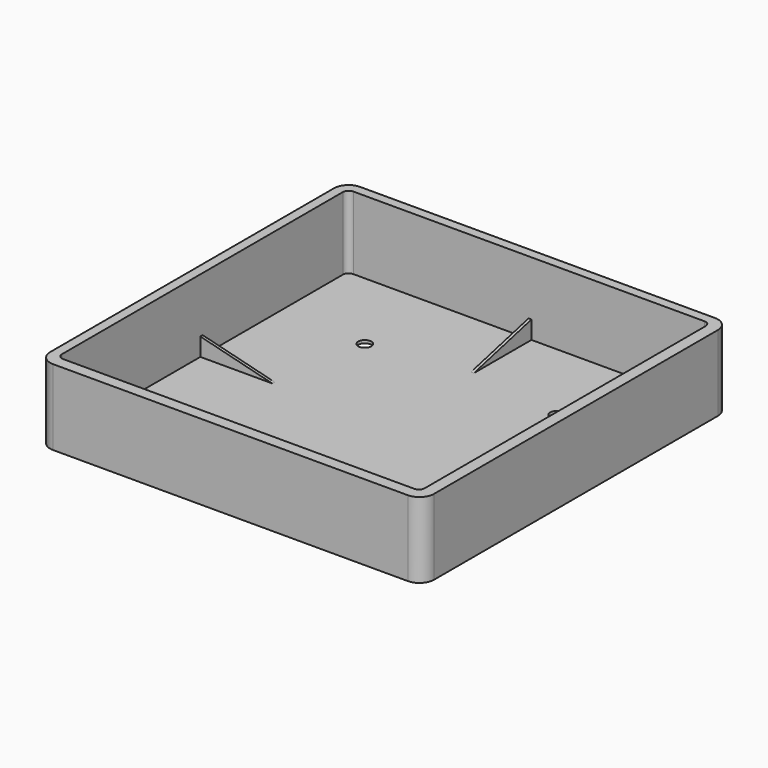
from build123d import *

# Parameters (mm, degrees)
F0_W     = 124.75
F0_H     = 124.75
F0_R     = 2.25
F1_DEPTH = 1
F0_W_2   = 132
F0_H_2   = 132
F2_DEPTH = 26
F4_DEPTH = 0.5
F6_DEPTH = 0.5
F7_R     = 2
F8_R     = 5


with BuildPart() as f1:
    # F0 (on Top) → F1 (new body)
    with BuildSketch(Plane.XY):
        with Locations((-0.375, 0.375)):
            Rectangle(F0_W, F0_H)
        with Locations((-33, -33)):
            Circle(F0_R, mode=Mode.SUBTRACT)
        with Locations((33, -33)):
            Circle(F0_R, mode=Mode.SUBTRACT)
        with Locations((-33, 33)):
            Circle(F0_R, mode=Mode.SUBTRACT)
        with Locations((33, 33)):
            Circle(F0_R, mode=Mode.SUBTRACT)
    extrude(amount=F1_DEPTH)

    # F0 (on Top) → F2 (join)
    with BuildSketch(Plane.XY):
        Rectangle(F0_W_2, F0_H_2)
        with Locations((-0.375, 0.375)):
            Rectangle(F0_W, F0_H, mode=Mode.SUBTRACT)
    extrude(amount=F2_DEPTH)

    # F3 (on Right) → F4 (join, symmetric)
    with BuildSketch(Plane.YZ):
        Polygon((-66, 0), (-34, 0), (-66, 8), align=None)
        Polygon((34, 0), (66, 0), (66, 8), align=None)
    extrude(amount=F4_DEPTH, both=True)

    # F5 (on Front) → F6 (join, symmetric)
    with BuildSketch(Plane.XZ):
        Polygon((-34, 0), (-66, 8), (-66, 0), align=None)
        Polygon((66, 8), (34, 0), (66, 0), align=None)
    extrude(amount=F6_DEPTH, both=True)

    # F7
    f7_edges = [f1.edges().sort_by_distance(p)[0] for p in [
        (-62.75, 62.75, 13.5),
        (62, 62.75, 13.5),
        (62, -62, 13.5),
        (-62.75, -62, 13.5),
    ]]
    fillet(f7_edges, radius=F7_R)

    # F8
    f8_edges = [f1.edges().sort_by_distance(p)[0] for p in [
        (-66, -66, 13),
        (66, -66, 13),
        (66, 66, 13),
        (-66, 66, 13),
    ]]
    fillet(f8_edges, radius=F8_R)


solid = f1.part
